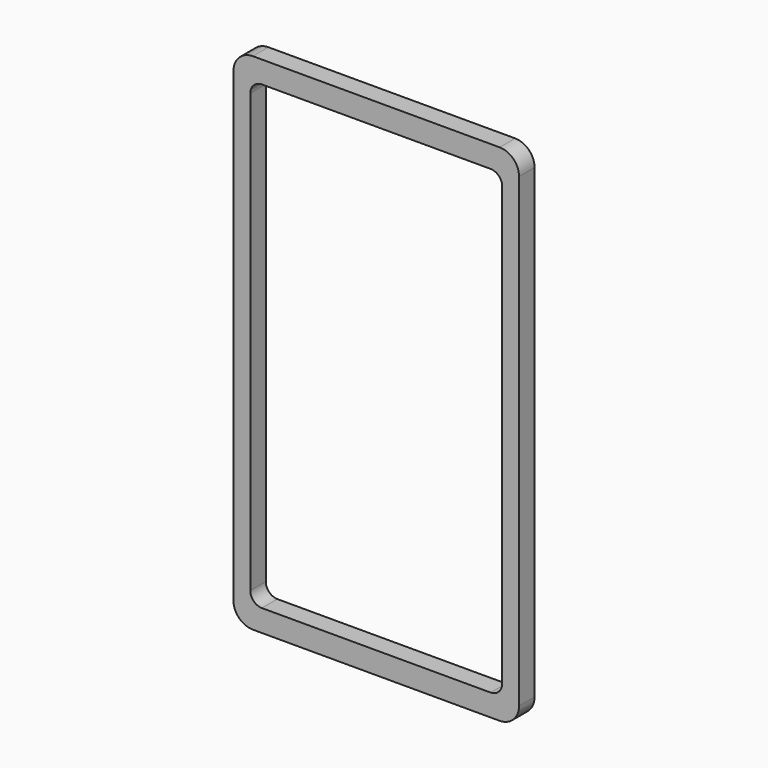
from build123d import *

# Parameters (mm, degrees)
F0_W     = 73.547
F0_H     = 130
F0_W_2   = 64.87
F0_H_2   = 118.7
F1_DEPTH = 5
F2_R     = 5
F3_R     = 3


with BuildPart() as f1:
    # F0 (on Front) → F1 (new body)
    with BuildSketch(Plane.XZ):
        Rectangle(F0_W, F0_H)
        Rectangle(F0_W_2, F0_H_2, mode=Mode.SUBTRACT)
    extrude(amount=F1_DEPTH)

    # F2
    f2_edges = [f1.edges().sort_by_distance(p)[0] for p in [
        (-36.7735, -2.5, 65),
        (36.7735, -2.5, 65),
        (36.7735, -2.5, -65),
        (-36.7735, -2.5, -65),
    ]]
    fillet(f2_edges, radius=F2_R)

    # F3
    f3_edges = [f1.edges().sort_by_distance(p)[0] for p in [
        (32.435, -2.5, 59.35),
        (32.435, -2.5, -59.35),
        (-32.435, -2.5, 59.35),
        (-32.435, -2.5, -59.35),
    ]]
    fillet(f3_edges, radius=F3_R)


solid = f1.part
